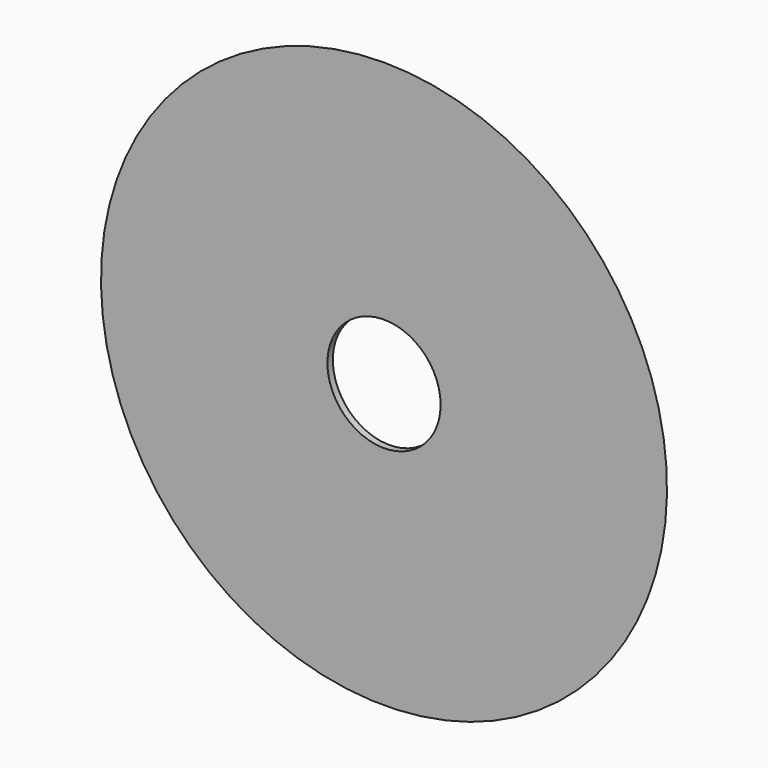
from build123d import *

# Parameters (mm, degrees)
SKETCH001_R       = 10
POCKET_DEPTH      = 1.201
POCKET_DEPTH_BACK = 0.001


with BuildPart() as part:
    # Sketch → Revolution (revolve)
    with BuildSketch(Plane.YZ):
        Polygon((0, 0), (1.2, 0), (1.2, 48), (0, 50), align=None)
    revolve(axis=Axis((0, 0, 0), (0, 1, 0)))

    # Sketch001 → Pocket (cut, two sides)
    with BuildSketch(Plane.XZ) as pocket_sk:
        Circle(SKETCH001_R)
    extrude(amount=-POCKET_DEPTH, mode=Mode.SUBTRACT)
    extrude(pocket_sk.sketch, amount=POCKET_DEPTH_BACK, mode=Mode.SUBTRACT)


solid = part.part
